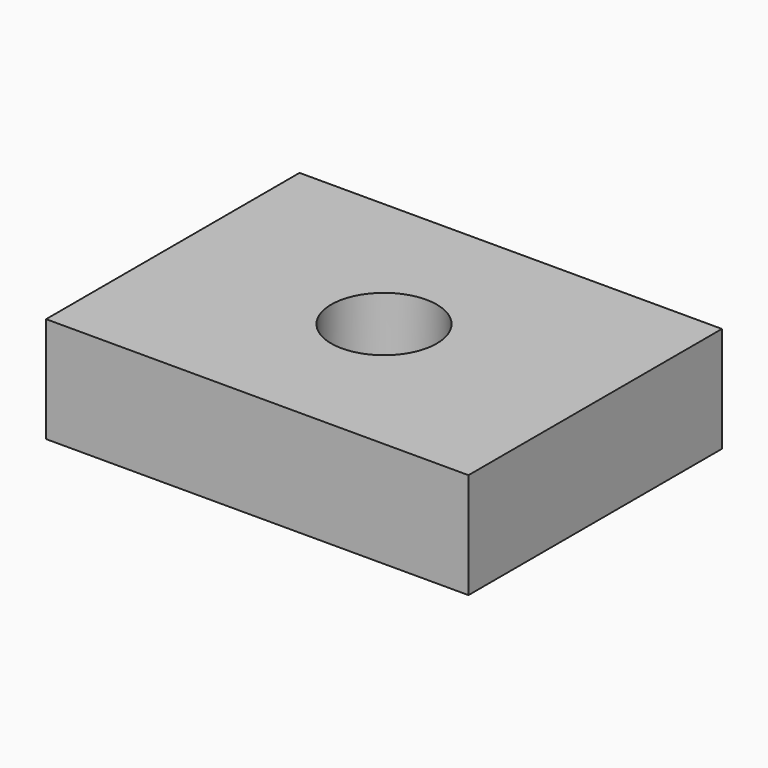
from build123d import *

# Parameters (mm, degrees)
F0_W     = 101.6
F0_H     = 76.2
F0_R     = 12.7
F1_DEPTH = 25.4
F2_R     = 3.175
F4_DEPTH = 25.4


with BuildPart() as f1:
    # F0 (on Top) → F1 (new body)
    with BuildSketch(Plane.XY):
        with Locations((7.50792135, 5.9566022065)):
            Rectangle(F0_W, F0_H)
        with Locations((7.50792135, 5.9566022065)):
            Circle(F0_R, mode=Mode.SUBTRACT)
    extrude(amount=F1_DEPTH)

    # F2
    f2_edges = [f1.edges().sort_by_distance(p)[0] for p in [
        (-43.292079, 5.956602, 25.4),
        (7.507921, -32.143398, 25.4),
        (58.307921, 5.956602, 25.4),
        (7.507921, 44.056602, 25.4),
        (-5.192079, 5.956602, 25.4),
        (-43.292079, 5.956602, 0),
        (7.507921, -32.143398, 0),
        (58.307921, 5.956602, 0),
        (7.507921, 44.056602, 0),
        (-5.192079, 5.956602, 0),
        (58.307921, 44.056602, 12.7),
        (-43.292079, 44.056602, 12.7),
        (-43.292079, -32.143398, 12.7),
        (58.307921, -32.143398, 12.7),
    ]]
    fillet(f2_edges, radius=F2_R)


with BuildPart() as f4:
    # F0 (on Top) → F4 (new body)
    with BuildSketch(Plane.XY):
        with Locations((7.50792135, 5.9566022065)):
            Rectangle(F0_W, F0_H)
        with Locations((7.50792135, 5.9566022065)):
            Circle(F0_R, mode=Mode.SUBTRACT)
    extrude(amount=F4_DEPTH)


solid = f4.part
